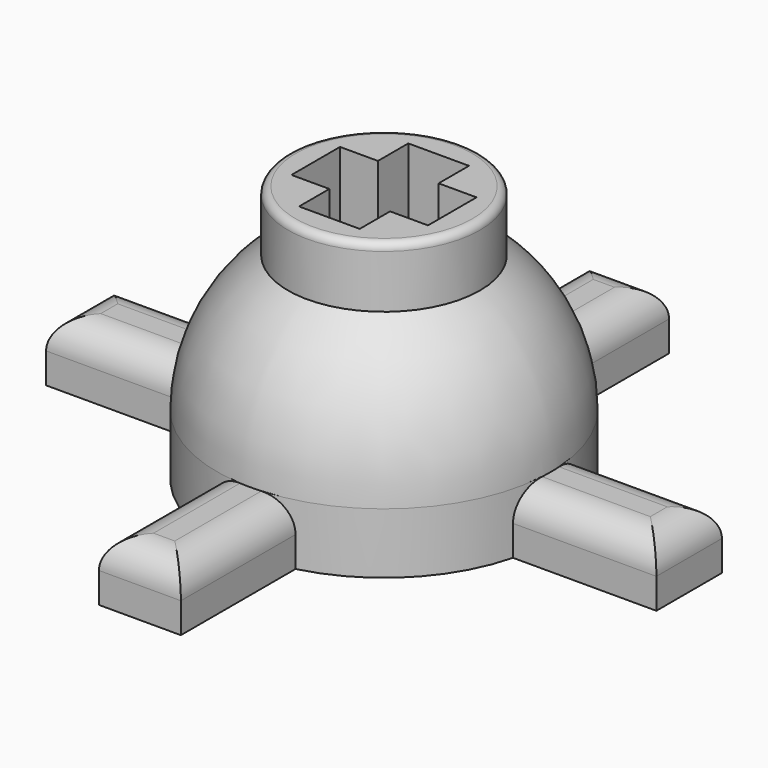
from build123d import *

# Parameters (mm, degrees)
PAD_DEPTH    = 2
POCKET_DEPTH = 7
FILLET004_R  = 1
FILLET005_R  = 0.25


with BuildPart() as arms:
    # Sketch → Pad (new body)
    with BuildSketch(Plane.XY):
        Polygon((-10.055, 1.35), (-10.055, -1.35), (-1.35, -1.35), (-1.35, -10.055), (1.35, -10.055), (1.35, -1.35), (10.055, -1.35), (10.055, 1.35), (1.35, 1.35), (1.35, 10.055), (-1.35, 10.055), (-1.35, 1.35), align=None)
    extrude(amount=PAD_DEPTH)


with BuildPart() as rotation_center_ball:
    # Sketch001 → Revolution (revolve)
    with BuildSketch(Plane.XZ):
        with BuildLine():
            Line((5.5, 2), (5.5, 0))
            Line((5.5, 0), (0, 0))
            Line((0, 8.5), (0, 0))
            Line((3.162278, 8.5), (0, 8.5))
            Line((3.162278, 6.5), (3.162278, 8.5))
            ThreePointArc((5.5, 2), (4.880703, 4.535495), (3.162278, 6.5))
        make_face()
    revolve(axis=Axis((0, 0, 0), (0, 0, 1)))

    # Boolean: union Arms
    add(arms.part)

    # Sketch002 (on ShapeBinder) → Pocket (cut)
    with BuildSketch(Plane(origin=(0, 0, 8.5), x_dir=(-1, 0, 0), z_dir=(0, 0, 1))):
        Polygon((-2.25, 1), (-1, 1), (-1, 2.25), (1, 2.25), (1, 1), (2.25, 1), (2.25, -1), (1, -1), (1, -2.25), (-1, -2.25), (-1, -1), (-2.25, -1), align=None)
    extrude(amount=-POCKET_DEPTH, mode=Mode.SUBTRACT)

    # Fillet004
    fillet004_edges = [rotation_center_ball.edges().sort_by_distance(p)[0] for p in [
        (0, 10.055, 2),
        (10.055, 0, 2),
        (-10.055, 0, 2),
        (0, -10.055, 2),
        (-7.693372, -1.35, 2),
        (-7.693372, 1.35, 2),
        (-1.35, -7.693372, 2),
        (1.35, -7.693372, 2),
        (7.693372, -1.35, 2),
        (7.693372, 1.35, 2),
        (-1.35, 7.693372, 2),
        (1.35, 7.693372, 2),
    ]]
    fillet(fillet004_edges, radius=FILLET004_R)

    # Fillet005
    fillet005_edges = [rotation_center_ball.edges().sort_by_distance(p)[0] for p in [
        (-3.162278, 0, 8.5),
    ]]
    fillet(fillet005_edges, radius=FILLET005_R)


solid = rotation_center_ball.part
